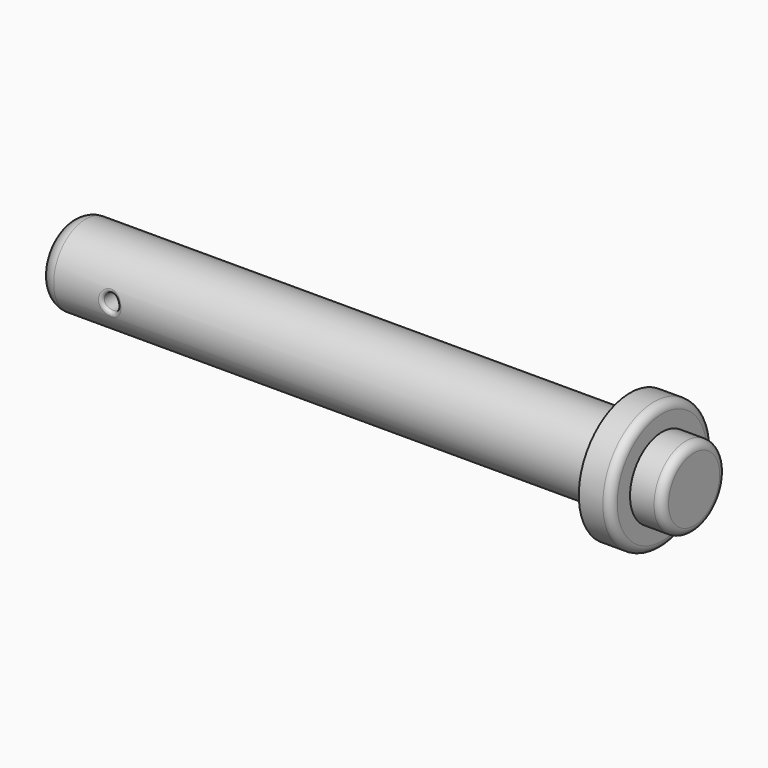
from build123d import *

# Parameters (mm, degrees)
F0_R     = 12.5
F1_DEPTH = 175
F2_R     = 20
F3_DEPTH = 10
F4_R     = 12.5
F5_DEPTH = 10
F6_R     = 2.5
F7_R     = 2.5
F8_DEPTH = 12.5
F9_R     = 1
F10_R    = 5


with BuildPart() as f1:
    # F0 (on Right) → F1 (new body)
    with BuildSketch(Plane.YZ):
        Circle(F0_R)
    extrude(amount=F1_DEPTH)

    # F2 (on face) → F3 (join)
    with BuildSketch(Plane.YZ.offset(175)):
        Circle(F2_R)
    extrude(amount=F3_DEPTH)

    # F4 (on face) → F5 (join)
    with BuildSketch(Plane.YZ.offset(185)):
        Circle(F4_R)
    extrude(amount=F5_DEPTH)

    # F6
    f6_edges = [f1.edges().sort_by_distance(p)[0] for p in [
        (195, -12.5, 0),
        (185, -20, 0),
    ]]
    fillet(f6_edges, radius=F6_R)

    # F7 (on Front) → F8 (cut, symmetric)
    with BuildSketch(Plane.XZ):
        with Locations((22.5, 0)):
            Circle(F7_R)
    extrude(amount=F8_DEPTH, both=True, mode=Mode.SUBTRACT)

    # F9
    f9_edges = [f1.edges().sort_by_distance(p)[0] for p in [
        (22.5, 12.247449, 2.5),
        (22.5, 12.247449, -2.5),
        (20, -12.5, 0),
    ]]
    fillet(f9_edges, radius=F9_R)

    # F10
    f10_edges = [f1.edges().sort_by_distance(p)[0] for p in [
        (0, -12.5, 0),
    ]]
    fillet(f10_edges, radius=F10_R)


solid = f1.part
